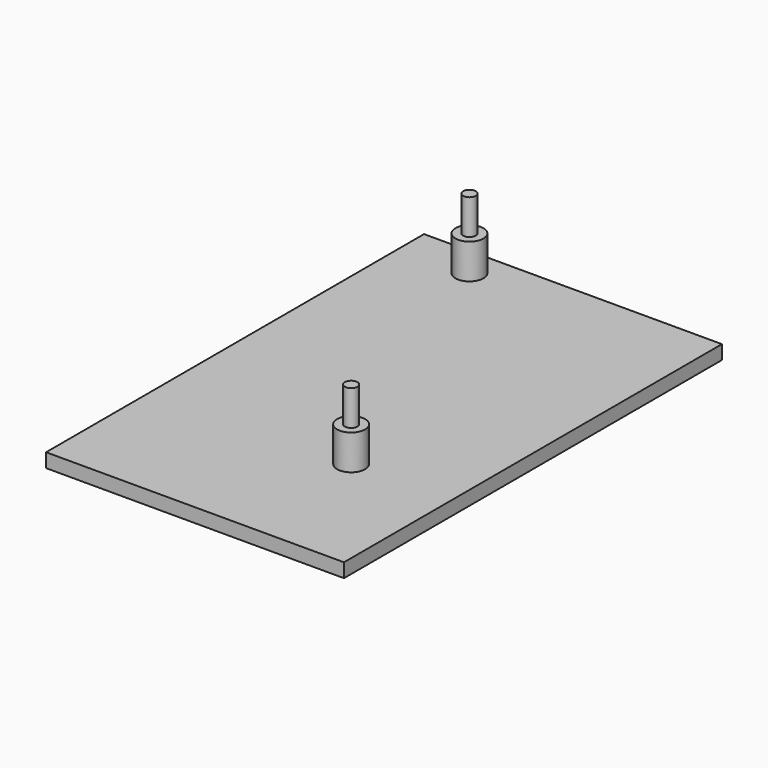
from build123d import *

# Parameters (mm, degrees)
F0_W     = 53.975
F0_H     = 85.598
F1_DEPTH = 2.54
F2_R     = 2.54
F2_R_2   = 1.143
F3_DEPTH = 6.35
F4_DEPTH = 12.7


with BuildPart() as f1:
    # F0 (on Top) → F1 (new body)
    with BuildSketch(Plane.XY):
        with Locations((26.9875, -42.799)):
            Rectangle(F0_W, F0_H)
    extrude(amount=F1_DEPTH)

    # F2 (on face) → F3 (join)
    with BuildSketch(Plane.XY.offset(2.54)):
        with Locations((12.4968, -5.334)):
            Circle(F2_R)
        with Locations((12.4968, -5.334)):
            Circle(F2_R_2, mode=Mode.SUBTRACT)
        with Locations((35.9664, -61.468)):
            Circle(F2_R)
        with Locations((35.9664, -61.468)):
            Circle(F2_R_2, mode=Mode.SUBTRACT)
    extrude(amount=F3_DEPTH)

    # F2 (on face) → F4 (join)
    with BuildSketch(Plane.XY.offset(2.54)):
        with Locations((12.4968, -5.334)):
            Circle(F2_R_2)
        with Locations((35.9664, -61.468)):
            Circle(F2_R_2)
    extrude(amount=F4_DEPTH)


solid = f1.part
